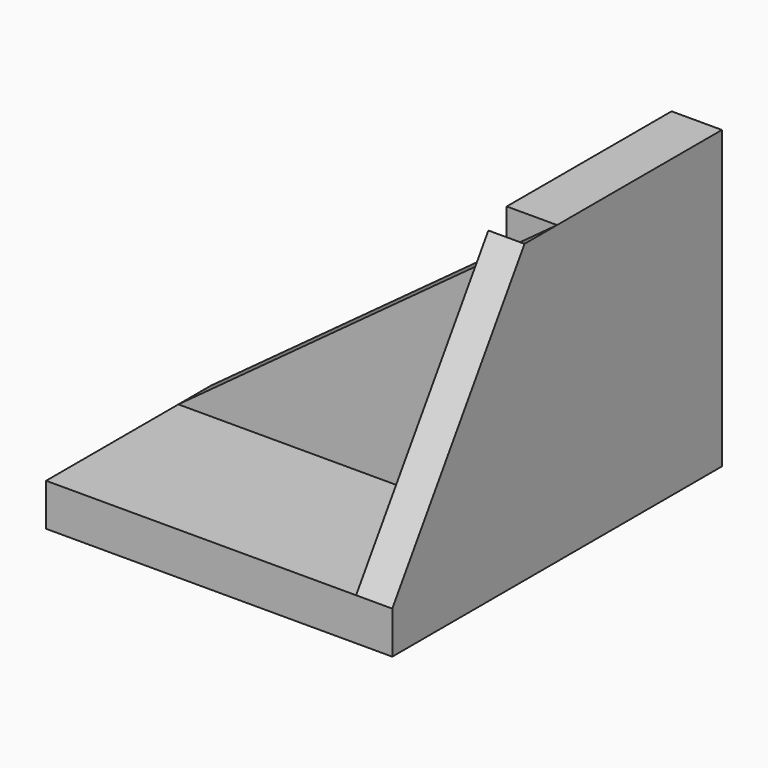
from build123d import *

# Parameters (mm, degrees)
F0_W      = 62.3333714902
F0_H      = 74.1953216493
F1_DEPTH  = 7.62
F3_DEPTH  = 25.4
F4_DEPTH  = 33.02
F5_W      = 62.3333714902
F5_H      = 7.3264986277
F6_DEPTH  = 45.72
F8_DEPTH  = 25.4
F9_W      = 6.5124388784
F9_H      = 29.771162197
F10_DEPTH = 45.72
F12_DEPTH = 25.4
F13_W     = 9.0668685734
F13_H     = 37.0976608247
F14_DEPTH = 45.72


with BuildPart() as f1:
    # F0 (on Top) → F1 (new body)
    with BuildSketch(Plane.XY):
        with Locations((-0.1162942499, -1.7444025725)):
            Rectangle(F0_W, F0_H)
    extrude(amount=F1_DEPTH)

    # F2 (on face) → F3 (join)
    with BuildSketch(Plane.XY.offset(7.62)):
        Polygon((-31.282979995, 35.3532582521), (-31.282979995, -1.7444025725), (0, 35.3532582521), align=None)
    extrude(amount=F3_DEPTH)

    # F4 (cut): a face of the model
    f4_faces = [f1.faces().sort_by_distance(p)[0] for p in [
        (-20.8553199967, 22.9873713106, 33.02),
    ]]
    extrude(f4_faces, amount=-F4_DEPTH, mode=Mode.SUBTRACT)

    # F5 (on face) → F6 (join)
    with BuildSketch(Plane.XY.offset(7.62)):
        with Locations((-0.1162942499, -5.4076518863)):
            Rectangle(F5_W, F5_H)
    extrude(amount=F6_DEPTH)

    # F7 (on face) → F8 (cut)
    with BuildSketch(Plane.XZ.offset(9.0709012002)):
        Polygon((-31.282979995, 53.34), (-31.282979995, 7.62), (31.0503914952, 53.34), align=None)
    extrude(amount=-F8_DEPTH, mode=Mode.SUBTRACT)

    # F9 (on face) → F10 (join)
    with BuildSketch(Plane.XY.offset(7.62)):
        with Locations((27.794172056, -23.9564822987)):
            Rectangle(F9_W, F9_H)
    extrude(amount=F10_DEPTH)

    # F11 (on face) → F12 (cut)
    with BuildSketch(Plane(origin=(24.5379526168, 0, 0), x_dir=(0, -1, 0), z_dir=(-1, 0, 0))):
        Polygon((38.8420633972, 53.34), (9.0709012002, 53.34), (38.8420633972, 7.62), align=None)
    extrude(amount=-F12_DEPTH, mode=Mode.SUBTRACT)

    # F13 (on face) → F14 (join)
    with BuildSketch(Plane.XY.offset(7.62)):
        with Locations((26.5169572085, 16.8044278398)):
            Rectangle(F13_W, F13_H)
    extrude(amount=F14_DEPTH)


solid = f1.part
